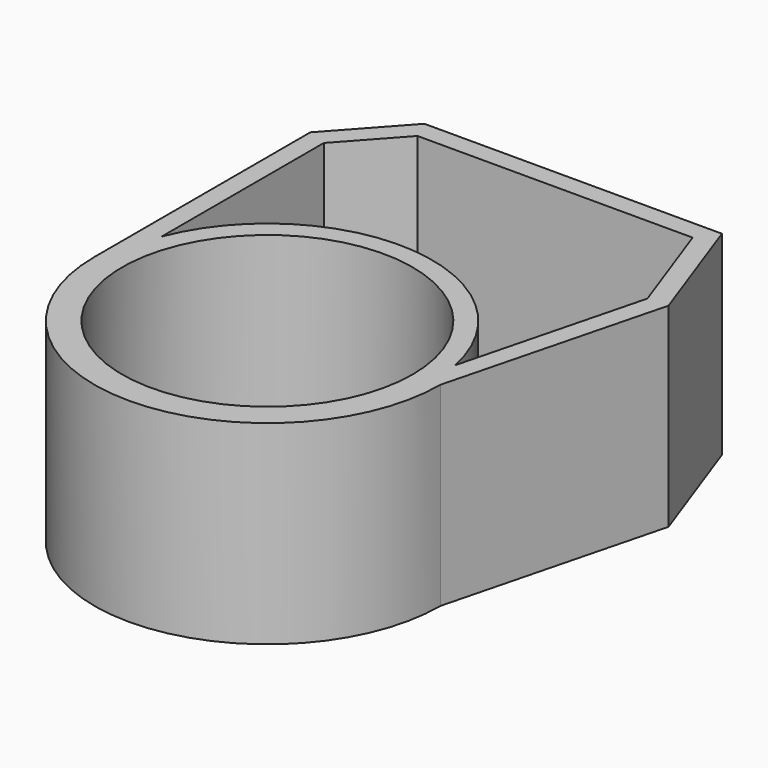
from build123d import *

# Parameters (mm, degrees)
F0_R     = 9.473878
F1_DEPTH = 12.7
F2_T     = -1.27


with BuildPart() as f1:
    # F0 (on Top) → F1 (new body)
    with BuildSketch(Plane.XY):
        with BuildLine():
            Line((-11.28285, 17.605154), (-11.28285, 0))
            ThreePointArc((-11.28285, 0), (0, -11.28285), (11.28285, 0))
            Line((11.28285, 0), (14.906, 14.071738))
            Line((14.906, 14.071738), (12.07074, 21.969963))
            Line((12.07074, 21.969963), (-7.333735, 21.969963))
            Line((-7.333735, 21.969963), (-11.28285, 17.605154))
        make_face()
        Circle(F0_R, mode=Mode.SUBTRACT)
    extrude(amount=F1_DEPTH)

    # F2
    f2_openings = [f1.faces().sort_by_distance(p)[0] for p in [
        (1.389795, 10.824441, 12.7),
    ]]
    offset(amount=F2_T, openings=f2_openings)


solid = f1.part
